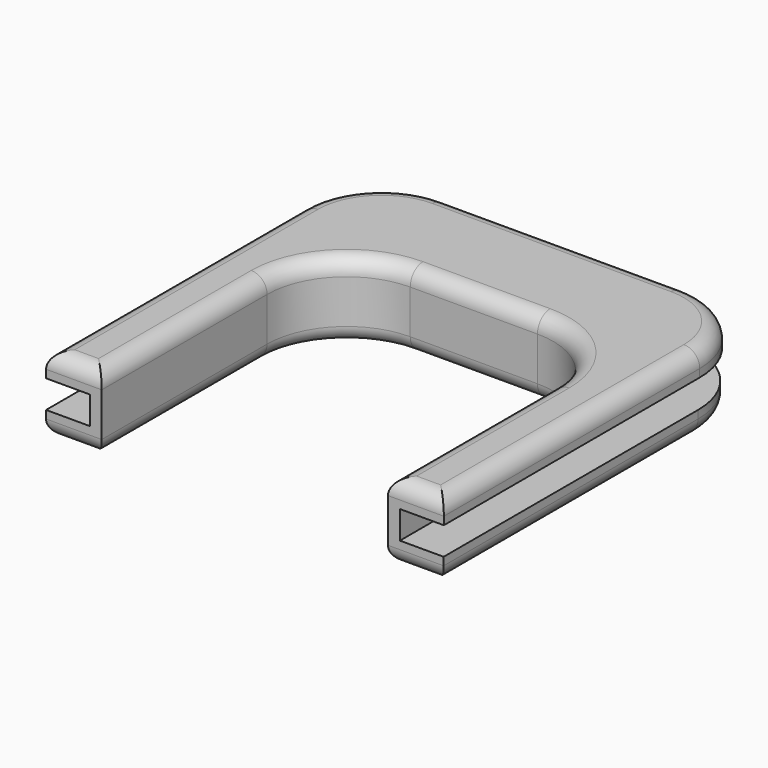
from build123d import *

# Parameters (mm, degrees)
F0_W     = 50
F0_H     = 50
F1_DEPTH = 3
F2_W     = 39
F2_H     = 39
F3_DEPTH = 3.5
F6_DEPTH = 3
F7_R     = 10
F9_DEPTH = 9.5
F10_R    = 2


with BuildPart() as f1:
    # F0 (on Top) → F1 (new body)
    with BuildSketch(Plane.XY):
        Rectangle(F0_W, F0_H)
    extrude(amount=F1_DEPTH)

    # F2 (on face) → F3 (join)
    with BuildSketch(Plane.XY.offset(3)):
        with Locations((0, -5.5)):
            Rectangle(F2_W, F2_H)
    extrude(amount=F3_DEPTH)

    # F5 (on face) → F6 (join)
    with BuildSketch(Plane.XY.offset(6.5)):
        Polygon((-25, -25), (-19.5, -25), (25.0254217535, -25), (25.0254217535, 25.2308920026), (-25, 25.2308920026), align=None)
    extrude(amount=F6_DEPTH)

    # F7
    f7_edges = [f1.edges().sort_by_distance(p)[0] for p in [
        (-25, 25, 1.5),
        (-25, 25.230892, 8),
        (25.025422, 25.230892, 8),
        (25, 25, 1.5),
        (-19.5, 14, 4.75),
        (19.5, 14, 4.75),
    ]]
    fillet(f7_edges, radius=F7_R)

    # F8 (on face) → F9 (cut, through all)
    with BuildSketch(Plane.XY.offset(9.5)):
        with BuildLine():
            Line((-18, 1), (-18, -25))
            Line((-18, -25), (18, -25))
            Line((18, -25), (18, 1))
            ThreePointArc((18, 1), (15.0710678119, 8.0710678119), (8, 11))
            Line((8, 11), (-8, 11))
            ThreePointArc((-8, 11), (-15.0710678119, 8.0710678119), (-18, 1))
        make_face()
    extrude(amount=-F9_DEPTH, mode=Mode.SUBTRACT)

    # F10
    f10_edges = [f1.edges().sort_by_distance(p)[0] for p in [
        (25.025422, -4.884554, 9.5),
        (21.512711, -25, 9.5),
        (18, -12, 9.5),
        (15.071068, 8.071068, 9.5),
        (0, 11, 9.5),
        (-15.071068, 8.071068, 9.5),
        (-18, -12, 9.5),
        (-21.5, -25, 9.5),
        (-25, -4.884554, 9.5),
        (-22.071068, 22.30196, 9.5),
        (0.012711, 25.230892, 9.5),
        (22.09649, 22.30196, 9.5),
        (25, -5, 0),
        (21.5, -25, 0),
        (18, -12, 0),
        (15.071068, 8.071068, 0),
        (0, 11, 0),
        (-15.071068, 8.071068, 0),
        (-18, -12, 0),
        (-21.5, -25, 0),
        (-25, -5, 0),
        (-22.071068, 22.071068, 0),
        (0, 25, 0),
        (22.071068, 22.071068, 0),
    ]]
    fillet(f10_edges, radius=F10_R)


solid = f1.part
